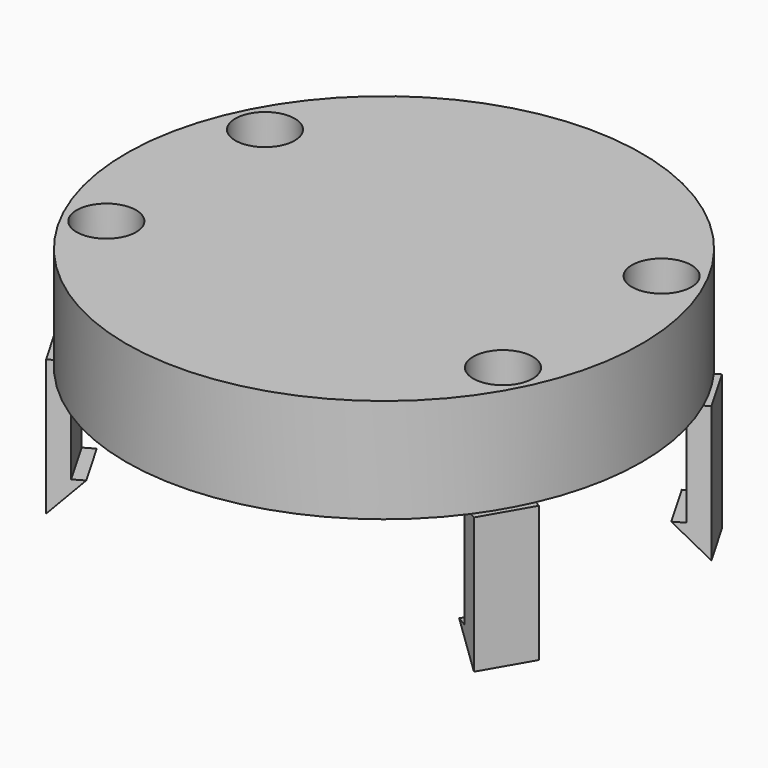
from build123d import *

# Parameters (mm, degrees)
SKETCH002_R                = 13
PAD001_DEPTH               = 5.25
SKETCH012_R                = 1.5
POCKET003_DEPTH            = 2
SKETCH012_MIRRORED_2_R     = 1.5
POCKET003_MIRRORED_2_DEPTH = 2
PAD007_DEPTH               = 1.375
PAD007_MIRRORED002_2_DEPTH = 1.375


with BuildPart() as part:
    # Sketch002 → Pad001 (new body)
    with BuildSketch(Plane(origin=(0, 0, 6.85), x_dir=(0, 1, 0), z_dir=(0, 0, 1))):
        Circle(SKETCH002_R)
    extrude(amount=PAD001_DEPTH)

    # Sketch012 (on Face3 of Pad001) → Pocket003 (cut)
    with BuildSketch(Plane(origin=(-10, 5, 12.1), x_dir=(1, 0, 0), z_dir=(0, 0, 1))):
        Circle(SKETCH012_R)
    pocket003 = extrude(amount=-POCKET003_DEPTH, mode=Mode.SUBTRACT)

    # Sketch012 Mirrored 2 → Pocket003 Mirrored 2 (cut)
    with BuildSketch(Plane(origin=(10, 5, 12.1), x_dir=(-1, 0, 0), z_dir=(0, 0, -1))):
        Circle(SKETCH012_MIRRORED_2_R)
    pocket003_mirrored_2 = extrude(amount=POCKET003_MIRRORED_2_DEPTH, mode=Mode.SUBTRACT)

    # Mirrored001: Pocket003, Pocket003 Mirrored 2 across XZ
    add(pocket003.mirror(Plane.XZ), mode=Mode.SUBTRACT)
    add(pocket003_mirrored_2.mirror(Plane.XZ), mode=Mode.SUBTRACT)

    # Sketch013 → Pad007 (join, symmetric)
    with BuildSketch(Plane(origin=(0, 0, 0), x_dir=(0.866025, 0.5, 0), z_dir=(0.5, -0.866025, 0))):
        Polygon((13.25, 6.85), (13.25, 0), (11.65, 1.6), (12.25, 1.6), (12.25, 6.85), align=None)
    pad007 = extrude(amount=PAD007_DEPTH, both=True)

    # Sketch013 Mirrored002 2 → Pad007 Mirrored002 2 (add, symmetric)
    with BuildSketch(Plane(origin=(0, 0, 0), x_dir=(0.866025, -0.5, 0), z_dir=(-0.5, -0.866025, 0))):
        Polygon((13.25, 6.85), (13.25, 0), (11.65, 1.6), (12.25, 1.6), (12.25, 6.85), align=None)
    pad007_mirrored002_2 = extrude(amount=-PAD007_MIRRORED002_2_DEPTH, both=True)

    # Mirrored003: Pad007, Pad007 Mirrored002 2 across YZ
    add(pad007.mirror(Plane.YZ))
    add(pad007_mirrored002_2.mirror(Plane.YZ))


solid = part.part
